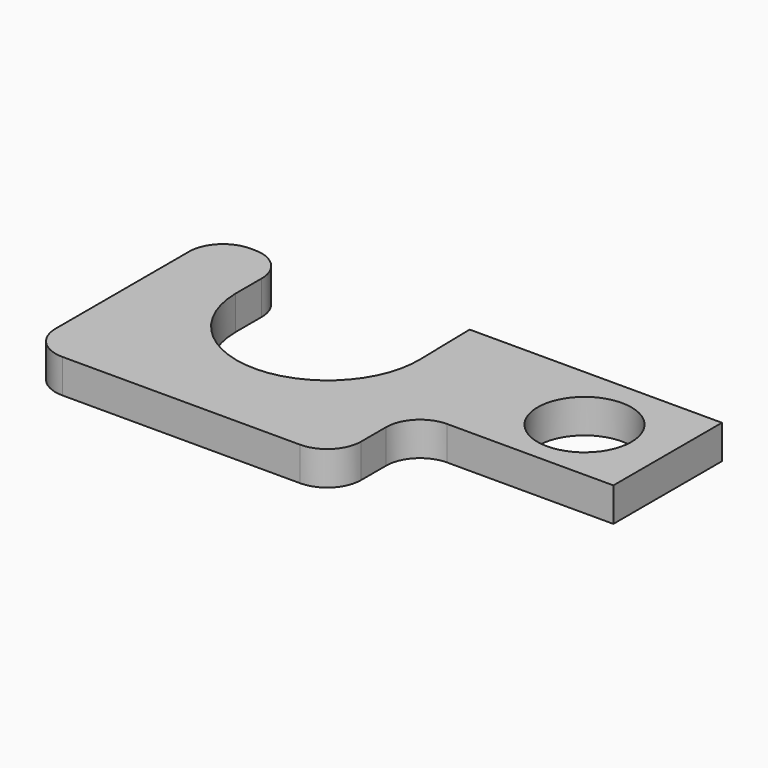
from build123d import *

# Parameters (mm, degrees)
F0_R     = 4.15
F1_DEPTH = 3


with BuildPart() as f1:
    # F0 (on Top) → F1 (new body)
    with BuildSketch(Plane.XY):
        with BuildLine():
            Line((31.969267, -3.992904), (31.969267, 8.007096))
            Line((31.969267, 8.007096), (9.657442, 8.007096))
            Line((9.657442, 8.007096), (9.774258, 2.39539))
            ThreePointArc((9.774258, 2.39539), (1.864099, -5.824019), (-6.329272, 2.113106))
            ThreePointArc((-6.329272, 2.113106), (-6.330089, 2.22779), (-6.329272, 2.342473))
            Line((-6.329272, 2.342473), (-6.329272, 5.007096))
            ThreePointArc((-6.329272, 5.007096), (-7.207952, 7.128417), (-9.329272, 8.007096))
            Line((-9.329272, 8.007096), (-9.754942, 8.007096))
            ThreePointArc((-9.754942, 8.007096), (-11.876262, 7.128417), (-12.754942, 5.007096))
            Line((-12.754942, 5.007096), (-12.754942, -9.754244))
            ThreePointArc((-12.754942, -9.754244), (-11.876262, -11.875564), (-9.754942, -12.754244))
            Line((-9.754942, -12.754244), (11.273001, -12.754244))
            ThreePointArc((11.273001, -12.754244), (13.394322, -11.875564), (14.273001, -9.754244))
            Line((14.273001, -9.754244), (14.273001, -6.992904))
            ThreePointArc((14.273001, -6.992904), (15.151681, -4.871583), (17.273001, -3.992904))
            Line((17.273001, -3.992904), (31.969267, -3.992904))
        make_face()
        with Locations((24.733823, 1.858876)):
            Circle(F0_R, mode=Mode.SUBTRACT)
        with BuildLine():
            ThreePointArc((-6.329272, 2.342473), (-6.330089, 2.22779), (-6.329272, 2.113106))
            Line((-6.329272, 2.113106), (-6.329272, 2.342473))
        make_face()
    extrude(amount=F1_DEPTH)


solid = f1.part
